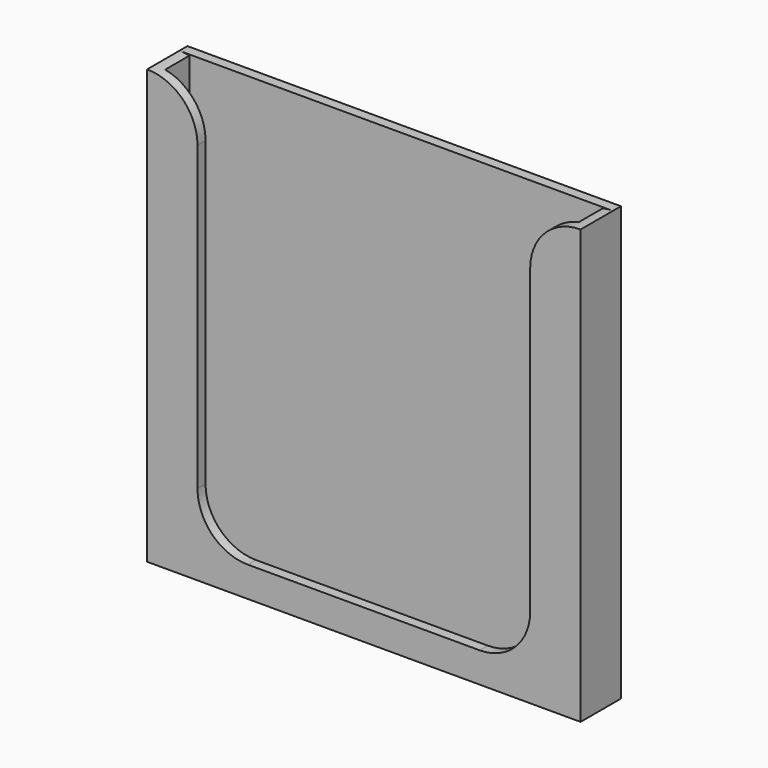
from build123d import *

# Parameters (mm, degrees)
F0_W     = 43
F0_H     = 43
F1_DEPTH = 5
F2_T     = -1
F4_DEPTH = 4


with BuildPart() as f1:
    # F0 (on Front) → F1 (new body)
    with BuildSketch(Plane.XZ):
        Rectangle(F0_W, F0_H)
    extrude(amount=F1_DEPTH)

    # F2
    f2_openings = [f1.faces().sort_by_distance(p)[0] for p in [
        (0, -2.5, 21.5),
    ]]
    offset(amount=F2_T, openings=f2_openings)

    # F3 (on face) → F4 (cut, through all)
    with BuildSketch(Plane.XZ.offset(5)):
        with BuildLine():
            ThreePointArc((-21.5, 21.5), (-17.9644660941, 20.0355339059), (-16.5, 16.5))
            Line((-16.5, 16.5), (-16.5, -13.5))
            ThreePointArc((-16.5, -13.5), (-15.0355339059, -17.0355339059), (-11.5, -18.5))
            Line((-11.5, -18.5), (11.5, -18.5))
            ThreePointArc((11.5, -18.5), (15.0355339059, -17.0355339059), (16.5, -13.5))
            Line((16.5, -13.5), (16.5, 16.5))
            ThreePointArc((16.5, 16.5), (17.9644660941, 20.0355339059), (21.5, 21.5))
            Line((21.5, 21.5), (-21.5, 21.5))
        make_face()
    extrude(amount=-F4_DEPTH, mode=Mode.SUBTRACT)


solid = f1.part
